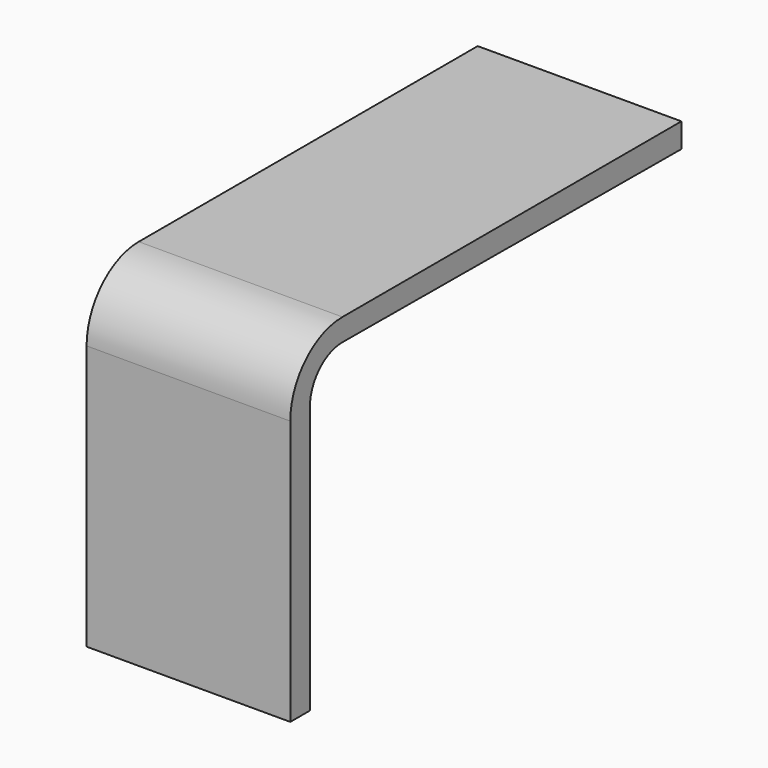
from build123d import *

# Parameters (mm, degrees)
F1_DEPTH = 50


with BuildPart() as f1:
    # F0 (on Right) → F1 (new body)
    with BuildSketch(Plane.YZ):
        with BuildLine():
            Line((65.592521, 34.034164), (-38.407479, 34.034164))
            ThreePointArc((-38.407479, 34.034164), (-49.721187, 29.347872), (-54.407479, 18.034164))
            Line((-54.407479, 18.034164), (-54.407479, -46.965836))
            Line((-54.407479, -46.965836), (-48.407479, -46.965836))
            Line((-48.407479, -46.965836), (-48.407479, 18.579981))
            ThreePointArc((-48.407479, 18.579981), (-45.459962, 25.669585), (-38.354984, 28.579843))
            Line((-38.354984, 28.579843), (65.592521, 28.034164))
            Line((65.592521, 28.034164), (65.592521, 34.034164))
        make_face()
    extrude(amount=F1_DEPTH)


solid = f1.part
